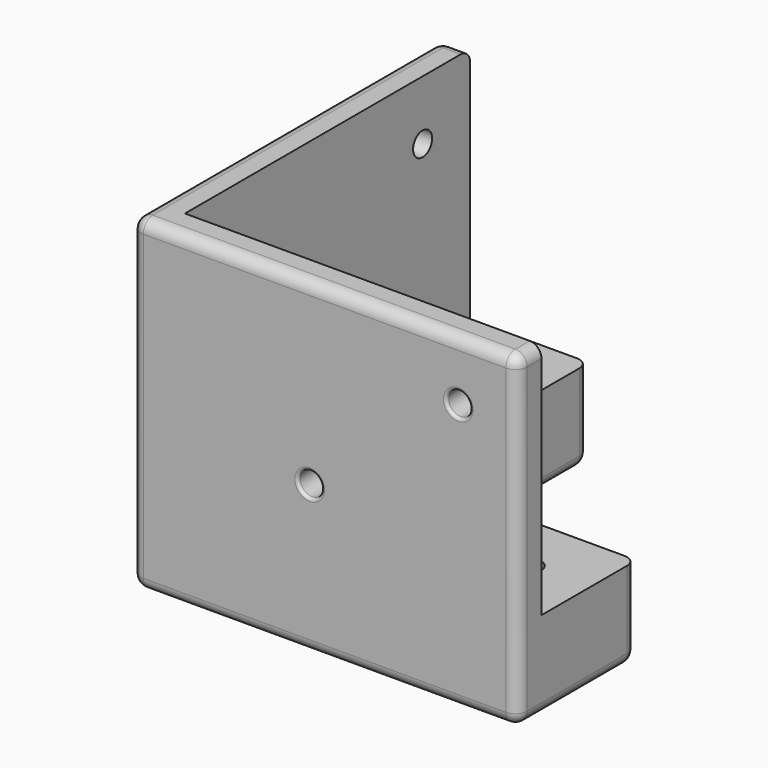
from build123d import *

# Parameters (mm, degrees)
F0_R     = 2
F1_DEPTH = 15
F2_DEPTH = 40
F3_R     = 5
F3_R_2   = 2
F4_DEPTH = 10
F5_R     = 2
F6_R     = 2
F7_DEPTH = 25
F8_R     = 2
F9_DEPTH = 25
F10_R    = 0.5


with BuildPart() as f1:
    # F0 (on Top) → F1 (new body)
    with BuildSketch(Plane.XY):
        Polygon((40, 0), (0, 0), (0, 40), (-20, 40), (-20, -20), (40, -20), align=None)
        with Locations((5, -10)):
            Circle(F0_R, mode=Mode.SUBTRACT)
        with Locations((-10, 5)):
            Circle(F0_R, mode=Mode.SUBTRACT)
        with Locations((30, -10)):
            Circle(F0_R, mode=Mode.SUBTRACT)
        with Locations((-10, 30)):
            Circle(F0_R, mode=Mode.SUBTRACT)
        Polygon((-20, -20), (-20, 40), (-25, 40), (-25, -25), (40, -25), (40, -20), align=None)
    extrude(amount=-F1_DEPTH)

    # F0 (on Top) → F2 (join)
    with BuildSketch(Plane.XY):
        Polygon((-20, -20), (-20, 40), (-25, 40), (-25, -25), (40, -25), (40, -20), align=None)
    extrude(amount=F2_DEPTH)

    # F3 (on face) → F4 (cut)
    with BuildSketch(Plane(origin=(0, 0, -15), x_dir=(1, 0, 0), z_dir=(0, 0, -1))):
        with Locations((-10, -30)):
            Circle(F3_R)
        with Locations((-10, -30)):
            Circle(F3_R_2, mode=Mode.SUBTRACT)
        with Locations((-10, -5)):
            Circle(F3_R)
        with Locations((-10, -5)):
            Circle(F3_R_2, mode=Mode.SUBTRACT)
        with Locations((5, 10)):
            Circle(F3_R)
        with Locations((5, 10)):
            Circle(F3_R_2, mode=Mode.SUBTRACT)
        with Locations((30, 10)):
            Circle(F3_R)
        with Locations((30, 10)):
            Circle(F3_R_2, mode=Mode.SUBTRACT)
    extrude(amount=-F4_DEPTH, mode=Mode.SUBTRACT)

    # F5
    f5_edges = [f1.edges().sort_by_distance(p)[0] for p in [
        (-25, -25, 12.5),
        (-25, 7.5, -15),
        (7.5, -25, -15),
        (20, 0, -15),
        (0, 20, -15),
        (-12.5, 40, -15),
        (40, -12.5, -15),
        (40, -25, 12.5),
        (7.5, -25, 40),
        (-25, 7.5, 40),
        (-25, 40, 12.5),
        (40, 0, -7.5),
        (0, 40, -7.5),
        (0, 0, -7.5),
        (40, -22.5, 40),
        (-22.5, 40, 40),
    ]]
    fillet(f5_edges, radius=F5_R)

    # F6 (on face) → F7 (cut)
    with BuildSketch(Plane(origin=(0, -20, 0), x_dir=(-1, 0, 0), z_dir=(0, 1, 0))):
        with Locations((-30, 30)):
            Circle(F6_R)
        with Locations((-5, 10)):
            Circle(F6_R)
    extrude(amount=-F7_DEPTH, mode=Mode.SUBTRACT)

    # F8 (on face) → F9 (cut)
    with BuildSketch(Plane.YZ.offset(-20)):
        with Locations((30, 30)):
            Circle(F8_R)
        with Locations((5, 10)):
            Circle(F8_R)
    extrude(amount=-F9_DEPTH, mode=Mode.SUBTRACT)

    # F10
    f10_edges = [f1.edges().sort_by_distance(p)[0] for p in [
        (-25, 3, 10),
        (-25, 28, 30),
        (7, -25, 10),
        (32, -25, 30),
    ]]
    fillet(f10_edges, radius=F10_R)


solid = f1.part
